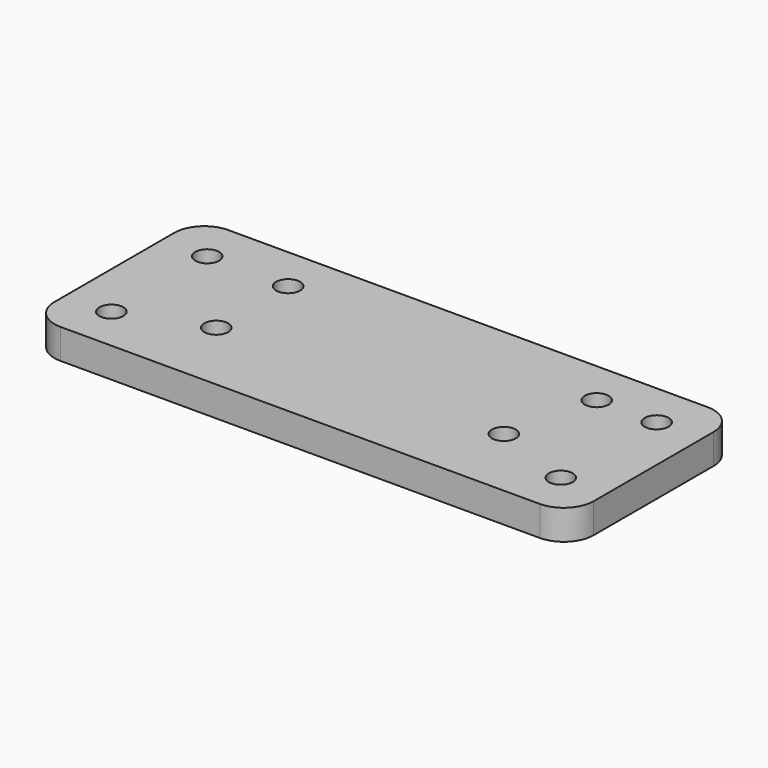
from build123d import *

# Parameters (mm, degrees)
SKETCH_W  = 180
SKETCH_H  = 70
SKETCH_R  = 4
PAD_DEPTH = 10
FILLET_R  = 10


with BuildPart() as part:
    # Sketch → Pad (new body)
    with BuildSketch(Plane.XY):
        with Locations((60, 25)):
            Rectangle(SKETCH_W, SKETCH_H)
        with Locations((-15, 45)):
            Circle(SKETCH_R, mode=Mode.SUBTRACT)
        with Locations((135, 45)):
            Circle(SKETCH_R, mode=Mode.SUBTRACT)
        with Locations((-15, 5)):
            Circle(SKETCH_R, mode=Mode.SUBTRACT)
        with Locations((135, 5)):
            Circle(SKETCH_R, mode=Mode.SUBTRACT)
        with Locations((12, 45)):
            Circle(SKETCH_R, mode=Mode.SUBTRACT)
        with Locations((12, 15)):
            Circle(SKETCH_R, mode=Mode.SUBTRACT)
        with Locations((108, 15)):
            Circle(SKETCH_R, mode=Mode.SUBTRACT)
        with Locations((115, 45)):
            Circle(SKETCH_R, mode=Mode.SUBTRACT)
    extrude(amount=PAD_DEPTH)

    # Fillet
    fillet_edges = [part.edges().sort_by_distance(p)[0] for p in [
        (-30, -10, 5),
        (-30, 60, 5),
        (150, -10, 5),
        (150, 60, 5),
    ]]
    fillet(fillet_edges, radius=FILLET_R)


solid = part.part
